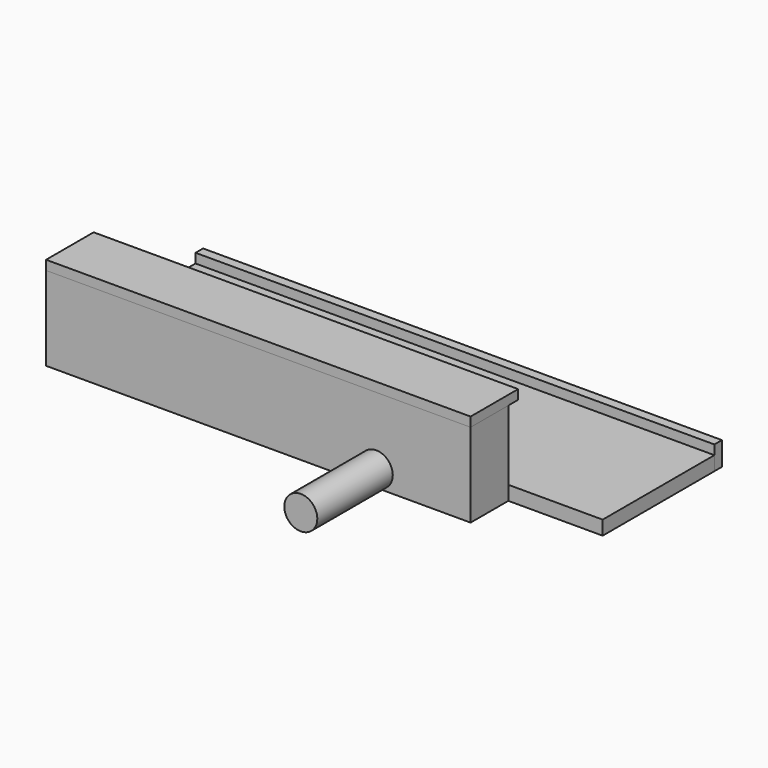
from build123d import *

# Parameters (mm, degrees)
BOX_W          = 45
BOX_H          = 5
BOX_DEPTH      = 8.9
BOX001_W       = 55
BOX001_H       = 14.8
BOX001_DEPTH   = 1.5
BOX002_W       = 55
BOX002_H       = 1
BOX002_DEPTH   = 2.5
BOX003_W       = 45
BOX003_H       = 6.3
BOX003_DEPTH   = 1
CYLINDER_R     = 1.75
CYLINDER_DEPTH = 10


with BuildPart() as cube:
    # Box → Box (new body)
    with BuildSketch(Plane.XY):
        with Locations((22.5, 2.5)):
            Rectangle(BOX_W, BOX_H)
    extrude(amount=BOX_DEPTH)


with BuildPart() as cube001:
    # Box001 → Box001 (new body)
    with BuildSketch(Plane(origin=(0, 5, 0), x_dir=(1, 0, 0), z_dir=(0, 0, 1))):
        with Locations((27.5, 7.4)):
            Rectangle(BOX001_W, BOX001_H)
    extrude(amount=BOX001_DEPTH)


with BuildPart() as cube002:
    # Box002 → Box002 (new body)
    with BuildSketch(Plane(origin=(0, 19.8, 0), x_dir=(1, 0, 0), z_dir=(0, 0, 1))):
        with Locations((27.5, 0.5)):
            Rectangle(BOX002_W, BOX002_H)
    extrude(amount=BOX002_DEPTH)


with BuildPart() as cube003:
    # Box003 → Box003 (new body)
    with BuildSketch(Plane.XY.offset(8.9)):
        with Locations((22.5, 3.15)):
            Rectangle(BOX003_W, BOX003_H)
    extrude(amount=BOX003_DEPTH)


with BuildPart() as cylinder:
    # Cylinder → Cylinder (new body)
    with BuildSketch(Plane(origin=(35, 0, 1.75), x_dir=(1, 0, 0), z_dir=(0, -1, 0))):
        Circle(CYLINDER_R)
    extrude(amount=CYLINDER_DEPTH)


solid = Compound([cube.part, cube001.part, cube002.part, cube003.part, cylinder.part])
